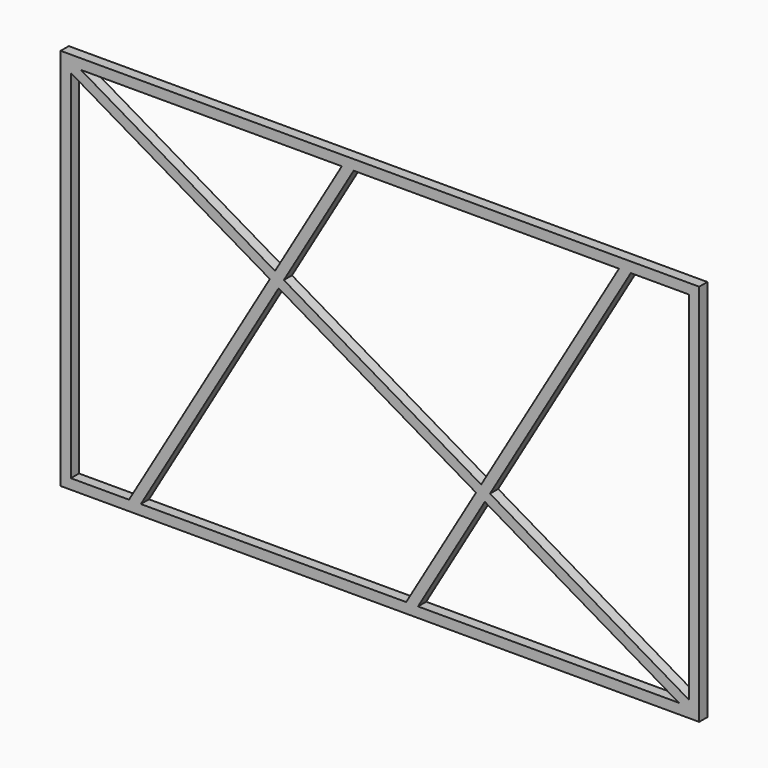
from build123d import *

# Parameters (mm, degrees)
F0_W     = 2500
F0_H     = 1500
F1_DEPTH = 40


with BuildPart() as f1:
    # F0 (on Front) → F1 (new body)
    with BuildSketch(Plane.XZ):
        with Locations((1250, 750)):
            Rectangle(F0_W, F0_H)
        Polygon((40, 1436.8111485162), (40, 1460), (79.5190285851, 1460), (1100.8899553859, 1460), (1147.2676583536, 1460), (2185.9554821423, 1460), (2232.33318511, 1460), (2460, 1460), (2460, 63.1888514838), (2460, 40), (2420.4809714149, 40), (1399.1100446141, 40), (1352.7323416464, 40), (314.0445178577, 40), (267.66681489, 40), (40, 40), align=None, mode=Mode.SUBTRACT)
        Polygon((853.5499625474, 959.4388564429), (819.0506256329, 979.6822690125), (267.66681489, 40), (314.0445178577, 40), align=None)
        Polygon((79.5190285851, 1460), (40, 1460), (40, 1436.8111485162), (819.0506256329, 979.6822690125), (839.2940382026, 1014.181605927), align=None)
        Polygon((873.793375117, 993.9381933573), (839.2940382026, 1014.181605927), (819.0506256329, 979.6822690125), (853.5499625474, 959.4388564429), align=None)
        Polygon((1147.2676583536, 1460), (1100.8899553859, 1460), (839.2940382026, 1014.181605927), (873.793375117, 993.9381933573), align=None)
        Polygon((1646.4500374526, 540.5611435571), (873.793375117, 993.9381933573), (853.5499625474, 959.4388564429), (1626.206624883, 506.0618066427), align=None)
        Polygon((2232.33318511, 1460), (2185.9554821423, 1460), (1646.4500374526, 540.5611435571), (1680.9493743671, 520.3177309875), align=None)
        Polygon((2460, 63.1888514838), (1680.9493743671, 520.3177309875), (1660.7059617974, 485.818394073), (2420.4809714149, 40), (2460, 40), align=None)
        Polygon((1680.9493743671, 520.3177309875), (1646.4500374526, 540.5611435571), (1626.206624883, 506.0618066427), (1660.7059617974, 485.818394073), align=None)
        Polygon((1660.7059617974, 485.818394073), (1626.206624883, 506.0618066427), (1352.7323416464, 40), (1399.1100446141, 40), align=None)
    extrude(amount=F1_DEPTH)


solid = f1.part
